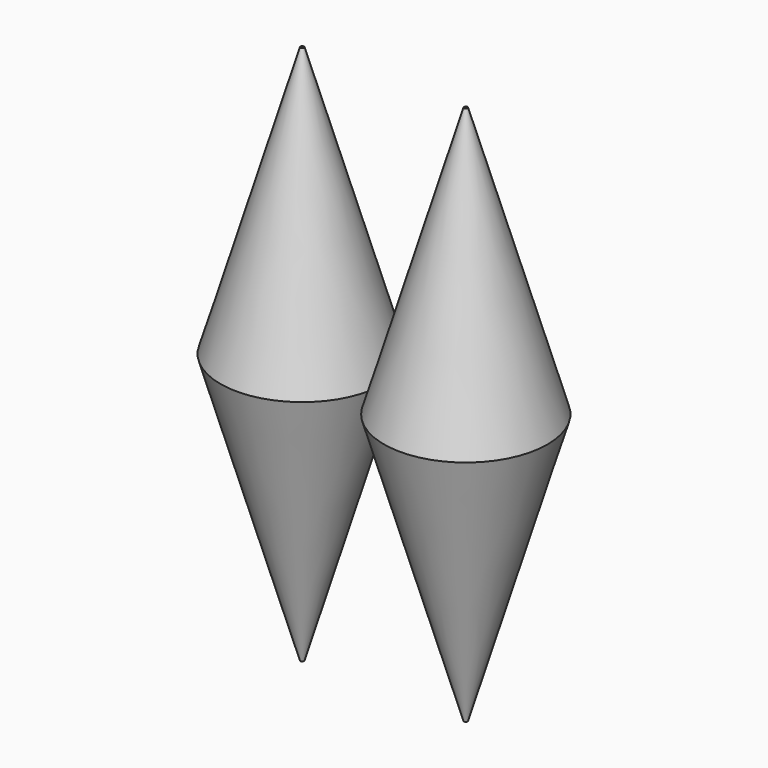
from build123d import *

# Parameters (mm, degrees)
F0_R     = 15.3892471325
F1_DEPTH = 50.8
F1_TAPER = 16.5


with BuildPart() as f1:
    # F0 (on Top) → F1 (new body)
    with BuildSketch(Plane.XY):
        Circle(F0_R)
    extrude(amount=F1_DEPTH, taper=F1_TAPER)

    # F2: F1 across plane


with BuildPart() as f1_1:
    add(f1.part)
    add(f1.part.mirror(Plane.XY))


with BuildPart() as f4_1:
    # F4: instance of F1
    add(f1_1.part.mirror(Plane.YZ.offset(-15.38986)))


solid = Compound([f1_1.part, f4_1.part])
